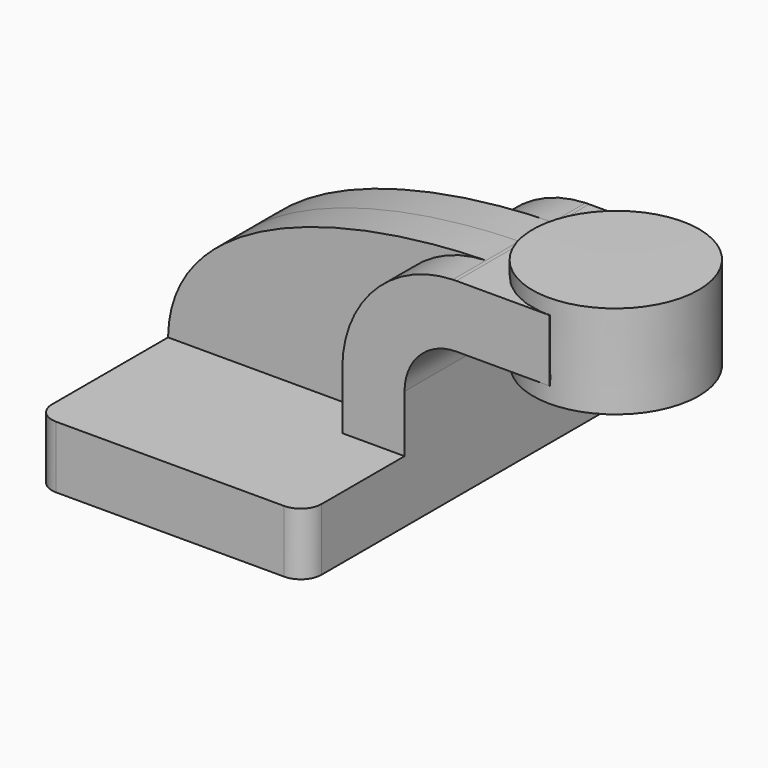
from build123d import *

# Parameters (mm, degrees)
F1_DEPTH = 63.5
F2_DEPTH = 25.4
F3_DEPTH = 12.7
F5_R     = 6.35


with BuildPart() as f1:
    # F0 (on Front) → F1 (new body, symmetric)
    with BuildSketch(Plane.XZ):
        Polygon((-41.275, -9.525), (41.275, -9.525), (41.275, 9.525), (22.225, 9.525), (-41.275, 9.525), align=None)
    extrude(amount=F1_DEPTH, both=True)

    # F0 (on Front) → F2 (join, symmetric)
    with BuildSketch(Plane.XZ):
        with BuildLine():
            Line((22.225, 9.525), (41.275, 9.525))
            Line((41.275, 9.525), (41.275, 27.0002))
            ThreePointArc((41.275, 27.0002), (45.9246798487, 38.2255201513), (57.15, 42.8752))
            Line((57.15, 42.8752), (60.2113806367, 42.8752))
            Line((60.2113806367, 42.8752), (60.2113806367, 61.9252))
            Line((60.2113806367, 61.9252), (57.15, 61.9252))
            add(Edge.make_bspline(
                [(56.0362595427, 61.907437175), (56.4079474882, 61.9143458561), (56.7792049443, 61.9202656965), (57.15, 61.9252)],
                knots=[110.5955102267, 110.5955102267, 110.5955102267, 110.5955102267, 111.5045361635, 111.5045361635, 111.5045361635, 111.5045361635], degree=3))
            ThreePointArc((56.0362595427, 61.907437175), (32.0636191284, 51.298947288), (22.225, 27.0002))
            Line((22.225, 27.0002), (22.225, 9.525))
        make_face()
        Polygon((60.2113806367, 61.9252), (60.2113806367, 42.8752), (85.706012942, 42.8752), (85.6302666997, 61.9252), align=None)
    extrude(amount=F2_DEPTH, both=True)

    # F0 (on Front) → F3 (join, symmetric)
    with BuildSketch(Plane.XZ):
        with BuildLine():
            add(Edge.make_bspline(
                [(-41.275, 9.525), (-40.7777766122, 45.5894744697), (10.8153078523, 61.0669010776), (56.0362595427, 61.907437175)],
                knots=[0, 0, 0, 0, 110.5955102267, 110.5955102267, 110.5955102267, 110.5955102267], degree=3))
            Line((-41.275, 9.525), (22.225, 9.525))
            Line((22.225, 9.525), (22.225, 27.0002))
            ThreePointArc((22.225, 27.0002), (32.0636191284, 51.298947288), (56.0362595427, 61.907437175))
        make_face()
    extrude(amount=F3_DEPTH, both=True)

    # F5
    f5_edges = [f1.edges().sort_by_distance(p)[0] for p in [
        (41.275, -63.5, 0),
        (-41.275, -63.5, 0),
        (41.275, 63.5, 0),
        (-41.275, 63.5, 0),
    ]]
    fillet(f5_edges, radius=F5_R)


with BuildPart() as f4:
    # F0 (on Front) → F4 (revolve)
    with BuildSketch(Plane.XZ):
        Polygon((85.725, 42.8752), (85.706012942, 42.8752), (85.725, 38.1), (111.0113806367, 38.1), (111.0113806367, 66.675), (85.6113806367, 66.675), (85.6302666997, 61.9252), (85.7661366463, 61.9252), align=None)
    revolve(axis=Axis((85.6681903183, 0, 52.3875), (0.0039761493, 0, -0.9999920951)))


solid = Compound([f1.part, f4.part])
